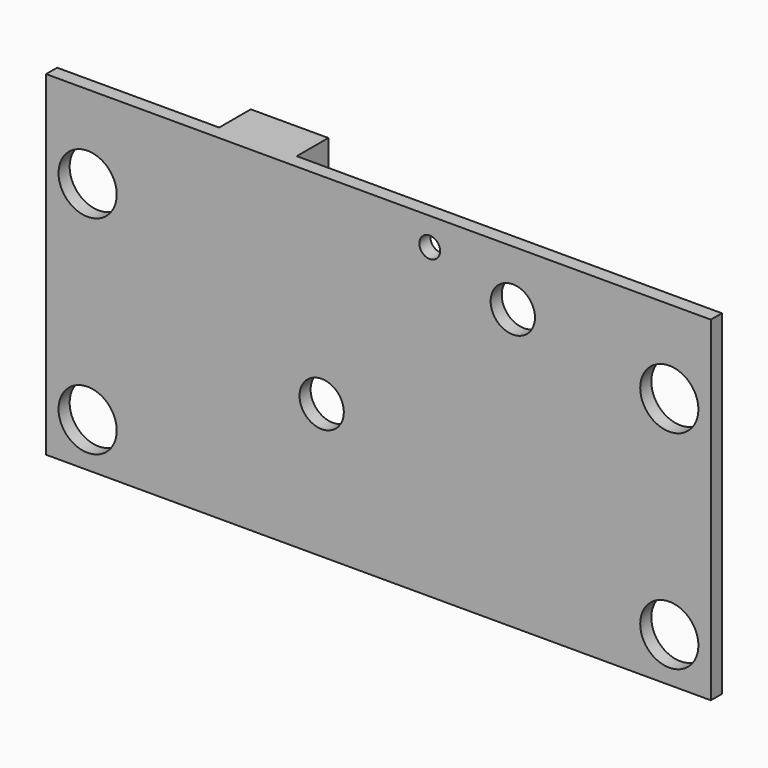
from build123d import *

# Parameters (mm, degrees)
F0_W     = 48
F0_H     = 24.2
F0_R     = 1.6
F1_DEPTH = 1
F2_R     = 1.05
F3_DEPTH = 2.5
F2_R_2   = 2.1
F2_R_3   = 0.75
F4_DEPTH = 1.001
F5_W     = 5.6
F5_H     = 10
F6_DEPTH = 2.85
F2_W     = 4.3
F2_H     = 2.9
F7_DEPTH = 3.5


with BuildPart() as f1:
    # F0 (on Front) → F1 (new body)
    with BuildSketch(Plane.XZ):
        Rectangle(F0_W, F0_H)
        with Locations((-4.1, -2.4)):
            Circle(F0_R, mode=Mode.SUBTRACT)
        with Locations((9.7, 8.1)):
            Circle(F0_R, mode=Mode.SUBTRACT)
        Rectangle(F0_W, F0_H)
        with Locations((-4.1, -2.4)):
            Circle(F0_R, mode=Mode.SUBTRACT)
        with Locations((9.7, 8.1)):
            Circle(F0_R, mode=Mode.SUBTRACT)
        Rectangle(F0_W, F0_H)
        with Locations((-4.1, -2.4)):
            Circle(F0_R, mode=Mode.SUBTRACT)
        with Locations((9.7, 8.1)):
            Circle(F0_R, mode=Mode.SUBTRACT)
    extrude(amount=-F1_DEPTH)

    # F2 (on face) → F3 (join)
    with BuildSketch(Plane(origin=(0, 1, 0), x_dir=(-1, 0, 0), z_dir=(0, 1, 0))):
        with Locations((-11.4, 5.1)):
            Circle(F2_R)
    extrude(amount=F3_DEPTH)

    # F2 (on face) → F4 (cut, through all)
    with BuildSketch(Plane(origin=(0, 1, 0), x_dir=(-1, 0, 0), z_dir=(0, 1, 0))):
        with Locations((-21, 6.1)):
            Circle(F2_R_2)
        with Locations((-21, -8.9)):
            Circle(F2_R_2)
        with Locations((21, 6.1)):
            Circle(F2_R_2)
        with Locations((21, -8.9)):
            Circle(F2_R_2)
        with Locations((-3.7, 10.1)):
            Circle(F2_R_3)
    extrude(amount=-F4_DEPTH, mode=Mode.SUBTRACT)

    # F5 (on face) → F6 (join)
    with BuildSketch(Plane(origin=(0, 1, 0), x_dir=(-1, 0, 0), z_dir=(0, 1, 0))):
        with Locations((9.5, 7.1)):
            Rectangle(F5_W, F5_H)
    extrude(amount=F6_DEPTH)

    # F2 (on face) → F7 (join)
    with BuildSketch(Plane(origin=(0, 1, 0), x_dir=(-1, 0, 0), z_dir=(0, 1, 0))):
        with Locations((-5.65, -8.05)):
            Rectangle(F2_W, F2_H)
    extrude(amount=F7_DEPTH)


solid = f1.part
